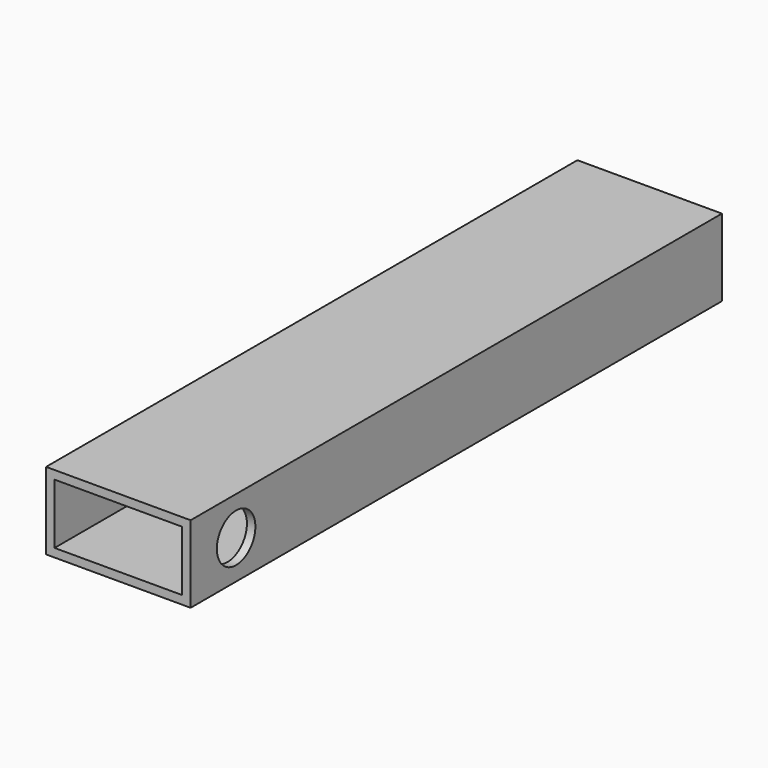
from build123d import *

# Parameters (mm, degrees)
SKETCH_W        = 37.5
SKETCH_H        = 172.3
PAD_DEPTH       = 20
SKETCH001_W     = 33.1
SKETCH001_H     = 15.6
POCKET_DEPTH    = 172
SKETCH002_R     = 6.25
POCKET001_DEPTH = 10


with BuildPart() as part:
    # Sketch → Pad (new body)
    with BuildSketch(Plane.XY):
        Rectangle(SKETCH_W, SKETCH_H)
    extrude(amount=PAD_DEPTH)

    # Sketch001 (on Face1 of Pad) → Pocket (cut)
    with BuildSketch(Plane.XZ.offset(86.15)):
        with Locations((0, 10)):
            Rectangle(SKETCH001_W, SKETCH001_H)
    extrude(amount=-POCKET_DEPTH, mode=Mode.SUBTRACT)

    # Sketch002 (on Face5 of Pocket) → Pocket001 (cut)
    with BuildSketch(Plane.YZ.offset(18.75)):
        with Locations((-71.4, 10)):
            Circle(SKETCH002_R)
    extrude(amount=-POCKET001_DEPTH, mode=Mode.SUBTRACT)


solid = part.part
